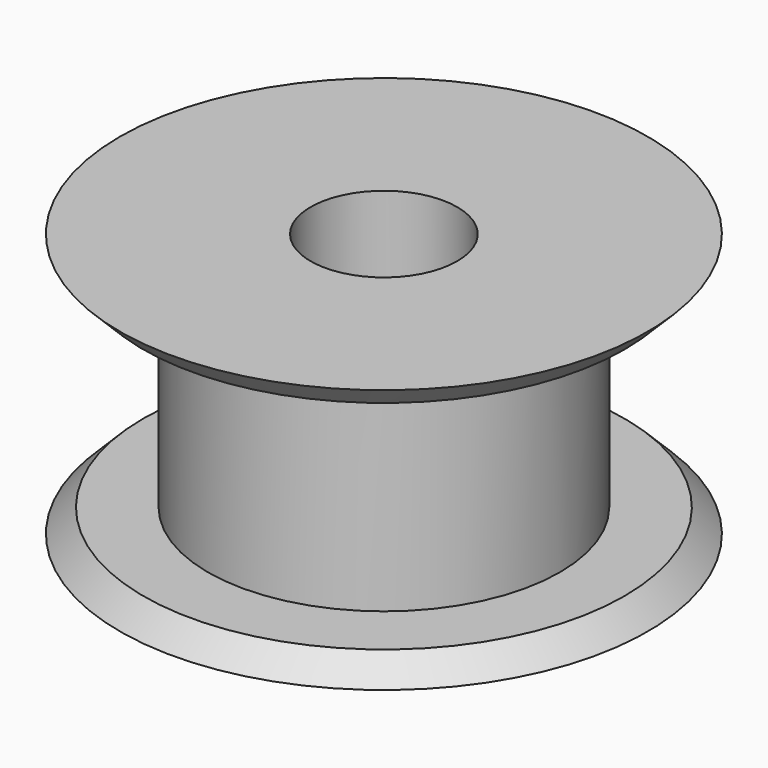
from build123d import *

# Parameters (mm, degrees)
F0_W     = 6
F0_H     = 7.4
F2_R     = 2.5
F3_DEPTH = 9


with BuildPart() as f1:
    # F0 (on Front) → F1 (revolve)
    with BuildSketch(Plane.XZ):
        Polygon((0, 11.687311), (-9, 11.687311), (-8.2, 10.887311), (-6, 10.887311), (0, 10.887311), align=None)
        with Locations((-3, 7.187311)):
            Rectangle(F0_W, F0_H)
        Polygon((0, 2.687311), (0, 3.487311), (-6, 3.487311), (-8.2, 3.487311), (-9, 2.687311), align=None)
    revolve(axis=Axis((0, 0, 3.487311), (0, 0, 1)))

    # F2 (on face) → F3 (cut, through all)
    with BuildSketch(Plane.XY.offset(11.687311)):
        Circle(F2_R)
    extrude(amount=-F3_DEPTH, mode=Mode.SUBTRACT)


solid = f1.part
